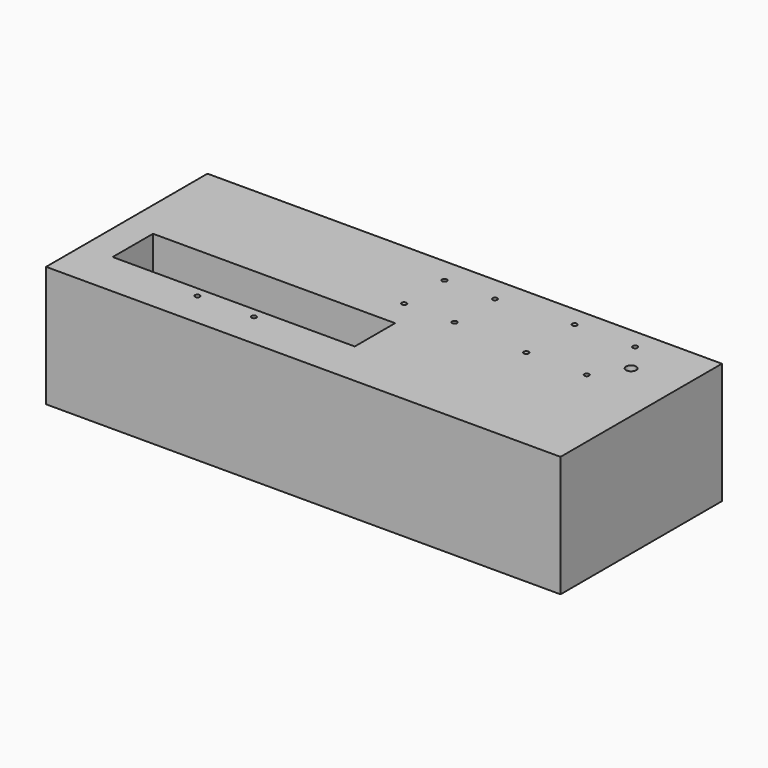
from build123d import *

# Parameters (mm, degrees)
F0_W     = 255
F0_H     = 100
F1_DEPTH = 60
F2_W     = 120
F2_H     = 25
F3_DEPTH = 50
F4_R     = 15
F6_D     = 2.4
F6_DEPTH = 5
F6_TIP   = 0.7210327428
F7_D     = 5
F7_DEPTH = 10
F7_TIP   = 1.5021515476


with BuildPart() as f1:
    # F0 (on Top) → F1 (new body)
    with BuildSketch(Plane.XY):
        Rectangle(F0_W, F0_H)
    extrude(amount=F1_DEPTH)

    # F2 (on face) → F3 (cut)
    with BuildSketch(Plane.XY.offset(60)):
        with Locations((-52.5, -15)):
            Rectangle(F2_W, F2_H)
    extrude(amount=-F3_DEPTH, mode=Mode.SUBTRACT)

    # F4
    f4_edges = [f1.edges().sort_by_distance(p)[0] for p in [
        (7.5, -15, 10),
        (-112.5, -15, 10),
    ]]
    fillet(f4_edges, radius=F4_R)

    # F6
    with Locations(Plane.XY.offset(60)):
        with Locations((92.5, 10), (92.5, 40), (62.5, 10), (62.5, 40), (25, 12.5), (0, 12.5), (0, 37.5), (25, 37.5), (-38.5, -32.5), (-66.5, -32.5)):
            Hole(F6_D / 2, depth=F6_DEPTH)
            with Locations((0, 0, -(F6_DEPTH + F6_TIP / 2))):  # 118° drill point
                Cone(0, F6_D / 2, F6_TIP, mode=Mode.SUBTRACT)

    # F7
    with Locations(Plane.XY.offset(60)):
        with Locations((102.5, 25)):
            Hole(F7_D / 2, depth=F7_DEPTH)
            with Locations((0, 0, -(F7_DEPTH + F7_TIP / 2))):  # 118° drill point
                Cone(0, F7_D / 2, F7_TIP, mode=Mode.SUBTRACT)


solid = f1.part
